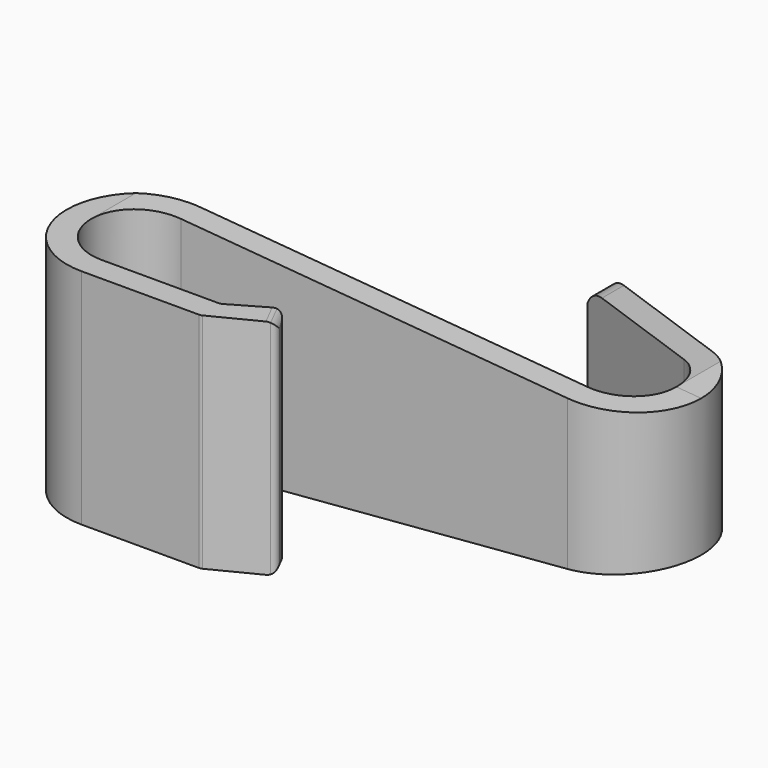
from build123d import *

# Parameters (mm, degrees)
F1_DEPTH  = 11.25
F4_DEPTH  = 12.5
F8_DEPTH  = 25
F9_DEPTH  = 5
F10_DEPTH = 5


with BuildPart() as f1:
    # F0 (on Top) → F1 (new body)
    with BuildSketch(Plane.XY):
        with BuildLine():
            Line((-22, 0), (0, 0))
            Line((0, 0), (17, 0))
            ThreePointArc((17, 0), (24.313496, 5.837842), (20.24165, 14.263261))
            Line((20.24165, 14.263261), (4.545653, 21.786397))
            ThreePointArc((4.545653, 21.786397), (4.091542, 21.811059), (3.752999, 21.507393))
            Line((3.752999, 21.507393), (3.186098, 20.324631))
            ThreePointArc((3.186098, 20.324631), (3.161436, 19.87052), (3.465103, 19.531977))
            Line((3.465103, 19.531977), (19.1611, 12.008841))
            ThreePointArc((19.1611, 12.008841), (21.875664, 6.391894), (17, 2.5))
            Line((17, 2.5), (-22, 2.5))
            ThreePointArc((-22, 2.5), (-29.5, -5), (-22, -12.5))
            Line((-22, -12.5), (-10.142284, -12.5))
            ThreePointArc((-10.142284, -12.5), (-10.003912, -12.483664), (-9.873148, -12.435554))
            Line((-9.873148, -12.435554), (-4.978775, -9.949009))
            ThreePointArc((-4.978775, -9.949009), (-4.678281, -9.588354), (-4.73332, -9.122157))
            Line((-4.73332, -9.122157), (-5.372774, -8.014591))
            ThreePointArc((-5.372774, -8.014591), (-5.733575, -7.737739), (-6.184464, -7.797099))
            Line((-6.184464, -7.797099), (-9.862116, -9.920392))
            ThreePointArc((-9.862116, -9.920392), (-10.005425, -9.979753), (-10.159215, -10))
            Line((-10.159215, -10), (-22, -10))
            ThreePointArc((-22, -10), (-27, -5), (-22, 0))
        make_face()
    extrude(amount=F1_DEPTH)

    # F3 (on offset) → F4 (cut)
    with BuildSketch(Plane.XZ.offset(5)):
        Polygon((27.003047, 6.75), (27.003047, 15.756967), (-27, 11.25), align=None)
    extrude(amount=-F4_DEPTH, mode=Mode.SUBTRACT)

    # F6 (on offset) → F8 (cut)
    with BuildSketch(Plane.XZ.offset(-7.5)):
        with BuildLine():
            Line((22, 7.166897), (24.5, 6.958576))
            Line((24.5, 6.958576), (25.517887, 14.069991))
            Line((25.517887, 14.069991), (1.366809, 12.402037))
            Line((1.366809, 12.402037), (3.064071, 5))
            Line((3.064071, 5), (3.064071, 2.323721))
            ThreePointArc((3.064071, 2.323721), (3.825408, 4.320816), (5.722997, 5.304269))
            Line((5.722997, 5.304269), (22, 7.166897))
        make_face()
    extrude(amount=-F8_DEPTH, mode=Mode.SUBTRACT)

    # F7 (on face) → F9 (cut)
    with BuildSketch(Plane(origin=(2.996136, -5.897423, 0), x_dir=(0.891541, 0.45294, 0), z_dir=(0.45294, -0.891541, 0))):
        with BuildLine():
            Line((-7.304974, 12.209089), (-10.371014, 11.25))
            Line((-10.371014, 11.25), (-9.32518, 11.25))
            Line((-9.32518, 11.25), (-8.945085, 11.25))
            Line((-8.945085, 11.25), (-8.945085, 11.174948))
            ThreePointArc((-8.945085, 11.174948), (-8.494489, 10.806734), (-8.32518, 10.25))
            Line((-8.32518, 10.25), (-8.32518, 10.173095))
            Line((-8.32518, 10.173095), (-7.304974, 10.173095))
            Line((-7.304974, 10.173095), (-7.304974, 12.209089))
        make_face()
    extrude(amount=-F9_DEPTH, mode=Mode.SUBTRACT)

    # F7 (on face) → F10 (cut)
    with BuildSketch(Plane(origin=(2.996136, -5.897423, 0), x_dir=(0.891541, 0.45294, 0), z_dir=(0.45294, -0.891541, 0))):
        with BuildLine():
            Line((-7.304974, 12.209089), (-10.371014, 11.25))
            Line((-10.371014, 11.25), (-9.32518, 11.25))
            Line((-9.32518, 11.25), (-8.945085, 11.25))
            Line((-8.945085, 11.25), (-8.945085, 11.174948))
            ThreePointArc((-8.945085, 11.174948), (-8.494489, 10.806734), (-8.32518, 10.25))
            Line((-8.32518, 10.25), (-8.32518, 10.173095))
            Line((-8.32518, 10.173095), (-7.304974, 10.173095))
            Line((-7.304974, 10.173095), (-7.304974, 12.209089))
        make_face()
        with BuildLine():
            Line((-8.945085, 11.25), (-9.32518, 11.25))
            ThreePointArc((-9.32518, 11.25), (-9.131463, 11.231057), (-8.945085, 11.174948))
            Line((-8.945085, 11.174948), (-8.945085, 11.25))
        make_face()
    extrude(amount=-F10_DEPTH, mode=Mode.SUBTRACT)

    # F11: F1 across plane


with BuildPart() as f1_1:
    add(f1.part)
    add(f1.part.mirror(Plane.XY))


solid = f1_1.part
